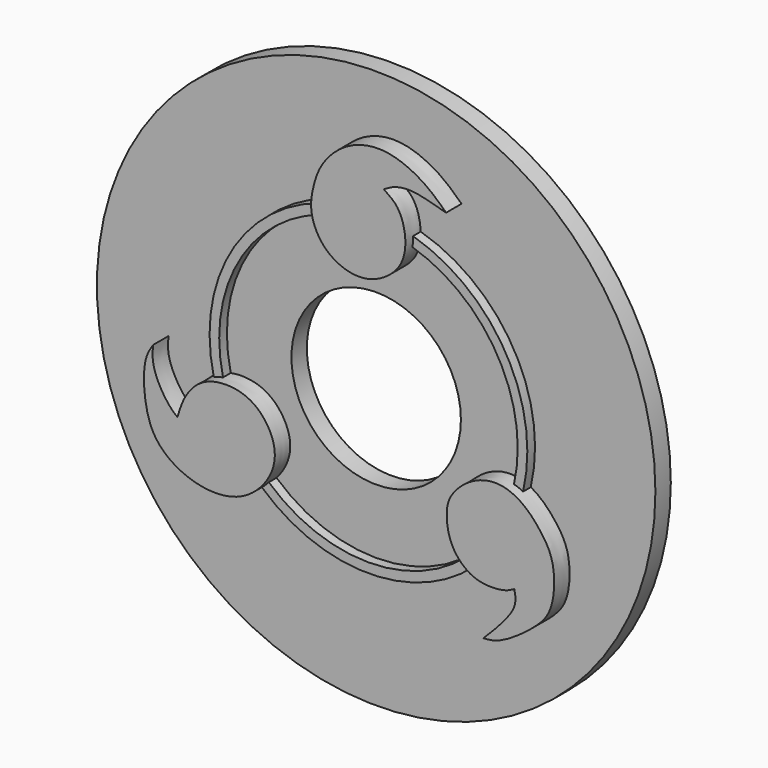
from build123d import *

# Parameters (mm, degrees)
F2_R     = 20.955
F2_R_2   = 19.685
F3_DEPTH = 3.81
F0_R     = 36.83
F4_DEPTH = 2.54
F1_R     = 11.176
F5_DEPTH = 18.796
F7_DEPTH = 5.08


with BuildPart() as f3:
    # F2 (on Front) → F3 (new body)
    with BuildSketch(Plane.XZ):
        Circle(F2_R)
        Circle(F2_R_2, mode=Mode.SUBTRACT)
    extrude(amount=F3_DEPTH)

    # F0 (on Front) → F4 (join)
    with BuildSketch(Plane.XZ):
        Circle(F0_R)
    extrude(amount=F4_DEPTH)

    # F1 (on Front) → F5 (cut)
    with BuildSketch(Plane.XZ):
        Circle(F1_R)
    extrude(amount=F5_DEPTH, mode=Mode.SUBTRACT)

    # F6 (on Front) → F7 (join)
    with BuildSketch(Plane.XZ):
        with BuildLine():
            add(Edge.make_bspline(
                [(20.2570147812, -15.6700648367), (19.8961694208, -15.8805236851), (19.0041175108, -16.4008025587), (15.8720621479, -16.559826062), (13.5312359314, -15.4147247099), (11.7272072425, -13.1399714713), (11.2166446038, -10.2137107801), (11.4999702986, -7.6218597128), (14.3865819004, -4.722269119), (18.1587165263, -3.7797428799), (21.4460389306, -5.1940456945), (23.8429017776, -7.8661286141), (25.6734991364, -10.8199724294), (25.5377481708, -16.3390016258), (23.2461494272, -19.2023701616), (18.452391334, -22.5753039632), (16.8043370097, -22.6711036419), (16.1752011627, -22.7076746523)],
                knots=[0, 0, 0, 0, 0.0436885344, 0.1080031639, 0.1676295863, 0.2294719046, 0.2924472264, 0.3509340914, 0.4237263668, 0.4953038566, 0.5634406065, 0.6326971489, 0.7017391482, 0.7852820259, 0.857371763, 0.94555244, 1, 1, 1, 1], degree=3))
            add(Edge.make_bspline(
                [(20.2570147812, -15.6700648367), (20.3829041644, -16.3084867464), (20.6845521254, -17.838231848), (17.9411549431, -20.9485961903), (16.7201363375, -22.1648610522), (16.1752011627, -22.7076746523)],
                knots=[0, 0, 0, 0, 0.2839743748, 0.6804409471, 1, 1, 1, 1], degree=3))
        make_face()
        with BuildLine():
            add(Edge.make_bspline(
                [(3.0488960911, 25.1434091479), (3.7182536947, 24.6990821502), (5.1726496809, 23.7336379712), (6.1241493354, 20.3115195563), (5.5613721245, 16.69225876), (2.0341131265, 13.9757621792), (-1.5557545968, 13.7470005644), (-5.0342055625, 15.5452774991), (-6.8469141166, 19.2212913575), (-6.3055975072, 22.4630575555), (-5.3424365083, 25.5025980603), (-2.1010733373, 28.9284126178), (3.0910934799, 30.2162430426), (8.3134253187, 27.9097705394), (10.3284132794, 25.9855691321), (11.2594394013, 25.0964909792)],
                knots=[0, 0, 0, 0, 0.0616302497, 0.1339116599, 0.2079808628, 0.2881086137, 0.361437359, 0.4374817635, 0.5149936036, 0.5852235295, 0.6550849429, 0.7387987633, 0.8281216337, 0.9205835211, 1, 1, 1, 1], degree=3))
            add(Edge.make_bspline(
                [(11.2594394013, 25.0964909792), (10.5646308324, 25.2820628254), (9.1428071033, 25.6618083644), (6.8452879901, 26.2699311214), (4.5200290319, 26.0390563832), (3.5142351531, 25.4267143698), (3.0488960911, 25.1434091479)],
                knots=[0, 0, 0, 0, 0.2537571195, 0.5192766902, 0.7775892867, 1, 1, 1, 1], degree=3))
        make_face()
        with BuildLine():
            add(Edge.make_bspline(
                [(-27.3906067014, -2.8257619124), (-27.790953611, -3.4332696992), (-28.8075634718, -4.9759278086), (-28.5233011705, -10.9489031163), (-26.5289063724, -14.867132619), (-21.7070990271, -17.5170081944), (-15.8617714826, -17.4320795969), (-11.8371266697, -13.6636122638), (-10.8215735606, -9.3413615315), (-13.4799514164, -5.1719896976), (-17.2969878336, -4.0269277312), (-21.0629413694, -4.6828120412), (-23.3644095401, -7.4279222295), (-23.9139992286, -9.2808253639), (-24.1766812534, -10.1669620555)],
                knots=[0, 0, 0, 0, 0.0636228496, 0.1615589249, 0.2469563528, 0.340002317, 0.4365777254, 0.5291519495, 0.6119248419, 0.6984248894, 0.7782692107, 0.8560101465, 0.9311136098, 0.9999516489, 0.9999516489, 0.9999516489, 0.9999516489], degree=3))
            add(Edge.make_bspline(
                [(-24.1766812534, -10.1669620555), (-24.3509354034, -10.0365492919), (-24.9137715031, -9.5865420103), (-26.1827320151, -8.0804292282), (-27.5785954401, -5.1680066439), (-27.4497008963, -3.5620457329), (-27.3906067014, -2.8257619124)],
                knots=[0.058079573, 0.058079573, 0.058079573, 0.058079573, 0.175325606, 0.4277692031, 0.7376497308, 1, 1, 1, 1], degree=3))
        make_face()
    extrude(amount=F7_DEPTH)


solid = f3.part
